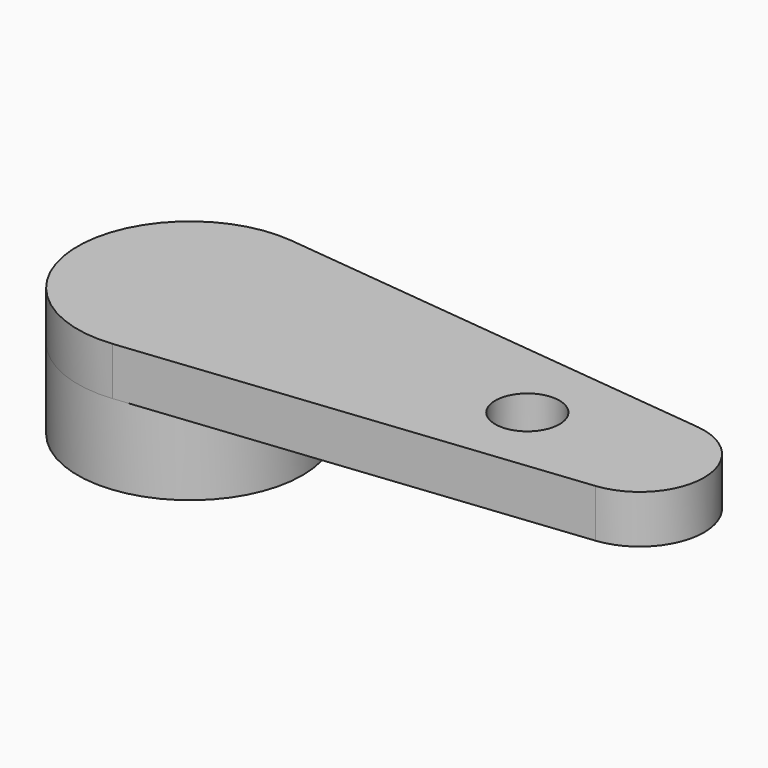
from build123d import *

# Parameters (mm, degrees)
SKETCH_R     = 3.5
PAD_DEPTH    = 2.5
SKETCH001_R  = 1
PAD001_DEPTH = 1.5


with BuildPart() as part:
    # Sketch → Pad (new body)
    with BuildSketch(Plane.XY):
        Circle(SKETCH_R)
        Polygon((0.331619, 2.200149), (0.766363, 2.484489), (0.965391, 2.004656), (1.464632, 2.148221), (1.513384, 1.63104), (2.032762, 1.621073), (1.926907, 1.1125), (2.420272, 0.949887), (2.169215, 0.495109), (2.59273, 0.194298), (2.218778, -0.166274), (2.534813, -0.578554), (2.071194, -0.812884), (2.251666, -1.3), (1.739575, -1.387265), (1.768449, -1.905935), (1.253387, -1.838381), (1.128098, -2.342519), (0.65583, -2.126149), (0.38751, -2.57096), (0, -2.225), (-0.38751, -2.57096), (-0.65583, -2.126149), (-1.128098, -2.342519), (-1.253387, -1.838381), (-1.768449, -1.905935), (-1.739575, -1.387265), (-2.251666, -1.3), (-2.071194, -0.812884), (-2.534813, -0.578554), (-2.218778, -0.166274), (-2.59273, 0.194298), (-2.169215, 0.495109), (-2.420272, 0.949887), (-1.926907, 1.1125), (-2.032762, 1.621073), (-1.513384, 1.63104), (-1.464632, 2.148221), (-0.965391, 2.004656), (-0.766363, 2.484489), (-0.331619, 2.200149), (0, 2.6), align=None, mode=Mode.SUBTRACT)
    extrude(amount=PAD_DEPTH)

    # Sketch001 (on Face45 of Pad) → Pad001 (join)
    with BuildSketch(Plane.XY.offset(2.5)):
        with BuildLine():
            ThreePointArc((0.375, 3.479853), (-3.5, 0), (0.375, -3.479853))
            Line((0.375, -3.479853), (14.214286, -1.988487))
            ThreePointArc((14.214286, -1.988487), (16, 0), (14.214286, 1.988487))
            Line((0.375, 3.479853), (14.214286, 1.988487))
        make_face()
        with Locations((10.5, 0)):
            Circle(SKETCH001_R, mode=Mode.SUBTRACT)
    extrude(amount=PAD001_DEPTH)


solid = part.part
